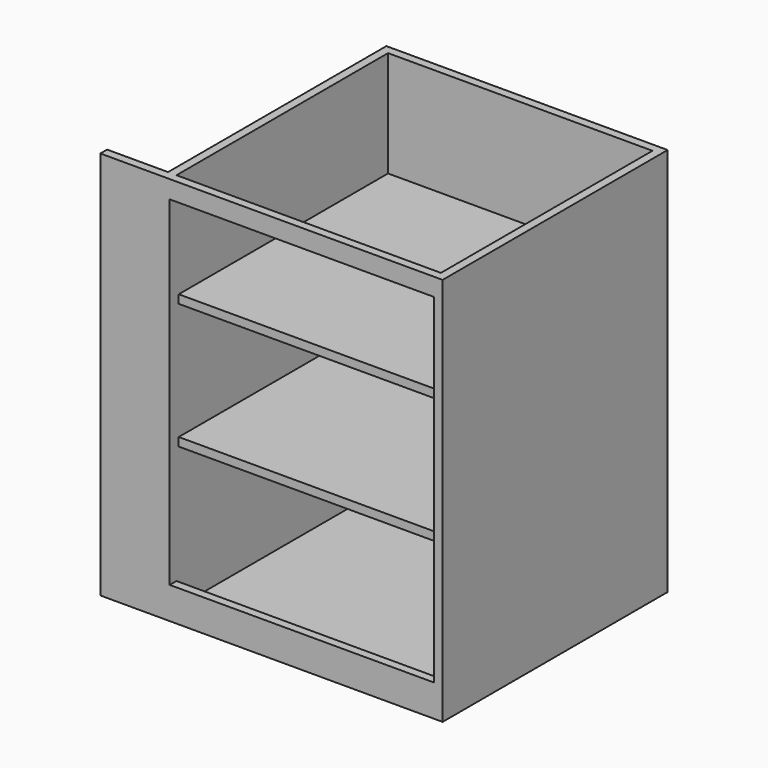
from build123d import *

# Parameters (mm, degrees)
F0_W     = 564
F0_H     = 564
F1_DEPTH = 830
F2_W     = 282
F2_H     = 724
F3_DEPTH = 244
F4_W     = 564
F4_H     = 564
F5_DEPTH = 18
F6_W     = 564
F6_H     = 18
F7_DEPTH = 558


with BuildPart() as f1:
    # F0 (on Top) → F1 (new body)
    with BuildSketch(Plane.XY):
        Polygon((-130, 0), (0, 0), (600, 0), (600, 600), (0, 600), (0, 18), (-130, 18), align=None)
        with Locations((300, 300)):
            Rectangle(F0_W, F0_H, mode=Mode.SUBTRACT)
    extrude(amount=-F1_DEPTH)

    # F2 (on face) → F3 (cut)
    with BuildSketch(Plane.XZ):
        with Locations((159, -400)):
            Rectangle(F2_W, F2_H)
        with Locations((441, -400)):
            Rectangle(F2_W, F2_H)
    extrude(amount=-F3_DEPTH, mode=Mode.SUBTRACT)

    # F4 (on face) → F5 (join)
    with BuildSketch(Plane(origin=(0, 0, -830), x_dir=(1, 0, 0), z_dir=(0, 0, -1))):
        with Locations((300, -300)):
            Rectangle(F4_W, F4_H)
    extrude(amount=-F5_DEPTH)

    # F6 (on face) → F7 (join)
    with BuildSketch(Plane.XZ.offset(-582)):
        with Locations((300, -235)):
            Rectangle(F6_W, F6_H)
        with Locations((300, -503)):
            Rectangle(F6_W, F6_H)
    extrude(amount=F7_DEPTH)


solid = f1.part
